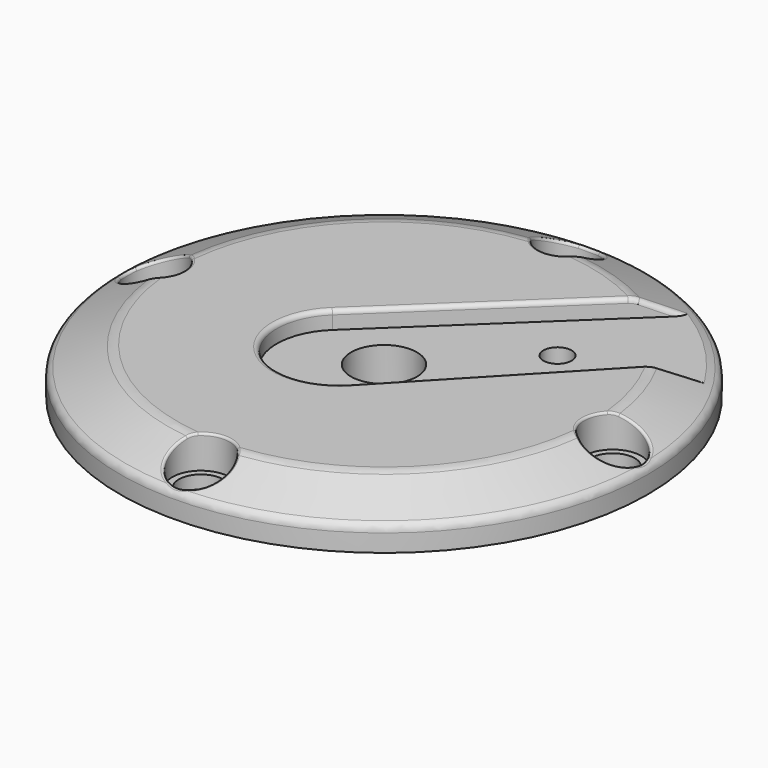
from build123d import *

# Parameters (mm, degrees)
SKETCH_R        = 60
SKETCH_R_2      = 7.5
SKETCH_R_3      = 3.2
SKETCH_R_4      = 5.05
PAD_DEPTH       = 14
SKETCH001_R     = 70
POCKET_DEPTH    = 3.5
POCKET001_DEPTH = 4
SKETCH003_R     = 6.5
POCKET002_DEPTH = 7.5
FILLET_R        = 5
FILLET001_R     = 2
FILLET002_R     = 1
FILLET003_R     = 0.5


with BuildPart() as cone002:
    # Cone002 → Cone002 (revolve)
    with BuildSketch(Plane.XZ):
        Polygon((0, 0), (80, 0), (30, 22), (0, 22), align=None)
    revolve(axis=Axis((0, 0, 0), (0, 0, 1)))


with BuildPart() as fillet003:
    # Sketch → Pad (new body)
    with BuildSketch(Plane.XY):
        Circle(SKETCH_R)
        Circle(SKETCH_R_2, mode=Mode.SUBTRACT)
        with Locations((21.92031, 21.92031)):
            Circle(SKETCH_R_3, mode=Mode.SUBTRACT)
        with Locations((-52, 0)):
            Circle(SKETCH_R_4, mode=Mode.SUBTRACT)
        with Locations((52, 0)):
            Circle(SKETCH_R_4, mode=Mode.SUBTRACT)
        with Locations((0, 52)):
            Circle(SKETCH_R_4, mode=Mode.SUBTRACT)
        with Locations((0, -52)):
            Circle(SKETCH_R_4, mode=Mode.SUBTRACT)
    extrude(amount=PAD_DEPTH)

    # Sketch001 → Pocket (cut)
    with BuildSketch(Plane(origin=(0, 0, 0), x_dir=(1, 0, 0), z_dir=(0, 0, -1))):
        Circle(SKETCH001_R)
        with BuildLine():
            ThreePointArc((-41.534414, 15.11729), (-44.2, 0), (-41.534414, -15.11729))
            Line((-41.534414, -15.11729), (-47.924324, -17.443027))
            ThreePointArc((-47.924324, -17.443027), (-36.062446, -36.062446), (-17.443027, -47.924324))
            Line((-15.11729, -41.534414), (-17.443027, -47.924324))
            ThreePointArc((-15.11729, -41.534414), (0, -44.2), (15.11729, -41.534414))
            Line((15.11729, -41.534414), (17.443027, -47.924324))
            ThreePointArc((17.443027, -47.924324), (36.062446, -36.062446), (47.924324, -17.443027))
            Line((41.534414, -15.11729), (47.924324, -17.443027))
            ThreePointArc((41.534414, -15.11729), (44.2, 0), (41.534414, 15.11729))
            Line((41.534414, 15.11729), (47.924324, 17.443027))
            ThreePointArc((47.924324, 17.443027), (36.062446, 36.062446), (17.443027, 47.924324))
            Line((15.11729, 41.534414), (17.443027, 47.924324))
            ThreePointArc((15.11729, 41.534414), (0, 44.2), (-15.11729, 41.534414))
            Line((-15.11729, 41.534414), (-17.443027, 47.924324))
            ThreePointArc((-17.443027, 47.924324), (-36.062446, 36.062446), (-47.924324, 17.443027))
            Line((-41.534414, 15.11729), (-47.924324, 17.443027))
        make_face(mode=Mode.SUBTRACT)
    extrude(amount=-POCKET_DEPTH, mode=Mode.SUBTRACT)

    # Sketch002 → Pocket001 (cut)
    with BuildSketch(Plane.XY.offset(14)):
        with BuildLine():
            Line((4.644542, -15.439722), (81.321028, 65.300484))
            Line((81.321028, 65.300484), (64.32339, 80.393113))
            Line((64.32339, 80.393113), (-15.439722, 4.644542))
            ThreePointArc((-15.439722, 4.644542), (-15.702333, -15.702333), (4.644542, -15.439722))
        make_face()
    extrude(amount=-POCKET001_DEPTH, mode=Mode.SUBTRACT)

    # Sketch003 → Pocket002 (cut)
    with BuildSketch(Plane.XY.offset(14)):
        with Locations((0, 52)):
            Circle(SKETCH003_R)
        with Locations((52, 0)):
            Circle(SKETCH003_R)
        with Locations((0, -52)):
            Circle(SKETCH003_R)
        with Locations((-52, 0)):
            Circle(SKETCH003_R)
    extrude(amount=-POCKET002_DEPTH, mode=Mode.SUBTRACT)

    # Common: intersect Cone002
    add(cone002.part, mode=Mode.INTERSECT)

    # Fillet
    fillet_edges = [fillet003.edges().sort_by_distance(p)[0] for p in [
        (34.06969, -34.06969, 14),
        (45.873903, 14.733386, 14),
        (-34.06969, 34.06969, 14),
        (14.733386, 45.873903, 14),
        (-34.06969, -34.06969, 14),
    ]]
    fillet(fillet_edges, radius=FILLET_R)

    # Fillet001
    fillet001_edges = [fillet003.edges().sort_by_distance(p)[0] for p in [
        (-60, 0, 8.8),
    ]]
    fillet(fillet001_edges, radius=FILLET001_R)

    # Fillet002
    fillet002_edges = [fillet003.edges().sort_by_distance(p)[0] for p in [
        (-15.702333, -15.702333, 14),
    ]]
    fillet(fillet002_edges, radius=FILLET002_R)

    # Fillet003
    fillet003_edges = [fillet003.edges().sort_by_distance(p)[0] for p in [
        (0, -45.5, 14),
        (-45.8738, -2.172482, 14),
        (45.5, 0, 14),
        (0, 45.5, 14),
    ]]
    fillet(fillet003_edges, radius=FILLET003_R)


solid = fillet003.part
